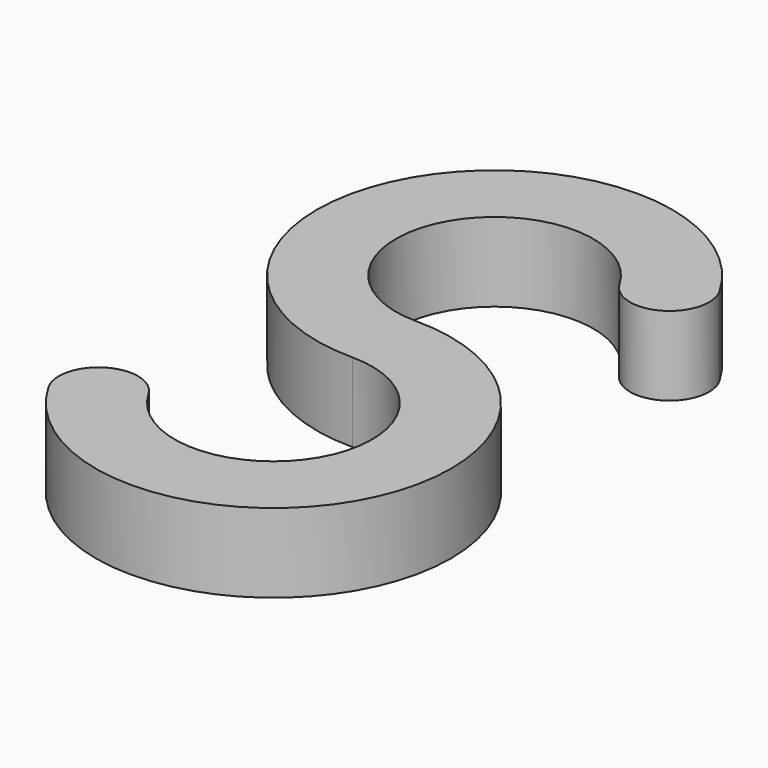
from build123d import *

# Parameters (mm, degrees)
F1_DEPTH = 10


with BuildPart() as f1:
    # F0 (on Top) → F1 (new body)
    with BuildSketch(Plane.XY):
        with BuildLine():
            ThreePointArc((4.9487165931, -0.7142857143), (2.5, -0.1794919243), (0, 0))
            ThreePointArc((0, 0), (-2.5, 0.1794919243), (-4.9487165931, 0.7142857143))
            ThreePointArc((-4.9487165931, 0.7142857143), (-3.7796447301, -3.2732683535), (0, -5))
            ThreePointArc((0, -5), (3.2732683535, -3.7796447301), (4.9487165931, -0.7142857143))
        make_face()
        with BuildLine():
            ThreePointArc((-4.9487165931, 0.7142857143), (-2.5, 0.1794919243), (0, 0))
            ThreePointArc((0, 0), (2.5, -0.1794919243), (4.9487165931, -0.7142857143))
            ThreePointArc((4.9487165931, -0.7142857143), (3.7796447301, 3.2732683535), (0, 5))
            ThreePointArc((0, 5), (-3.2732683535, 3.7796447301), (-4.9487165931, 0.7142857143))
        make_face()
        with BuildLine():
            ThreePointArc((0, -5), (-3.7796447301, -3.2732683535), (-4.9487165931, 0.7142857143))
            ThreePointArc((-4.9487165931, 0.7142857143), (-3.2732683535, 3.7796447301), (0, 5))
            ThreePointArc((0, 5), (-10.8253175473, 23.75), (10.8253175473, 23.75))
            ThreePointArc((10.8253175473, 23.75), (17.6554445662, 21.9198729811), (19.4855715851, 28.75))
            ThreePointArc((19.4855715851, 28.75), (-19.4855715851, 28.75), (0, -5))
        make_face()
        with BuildLine():
            ThreePointArc((0, 5), (3.7796447301, 3.2732683535), (4.9487165931, -0.7142857143))
            ThreePointArc((4.9487165931, -0.7142857143), (3.2732683535, -3.7796447301), (0, -5))
            ThreePointArc((0, -5), (10.8253175473, -23.75), (-10.8253175473, -23.75))
            ThreePointArc((-10.8253175473, -23.75), (-17.6554445662, -21.9198729811), (-19.4855715851, -28.75))
            ThreePointArc((-19.4855715851, -28.75), (19.4855715851, -28.75), (0, 5))
        make_face()
    extrude(amount=F1_DEPTH)


solid = f1.part
